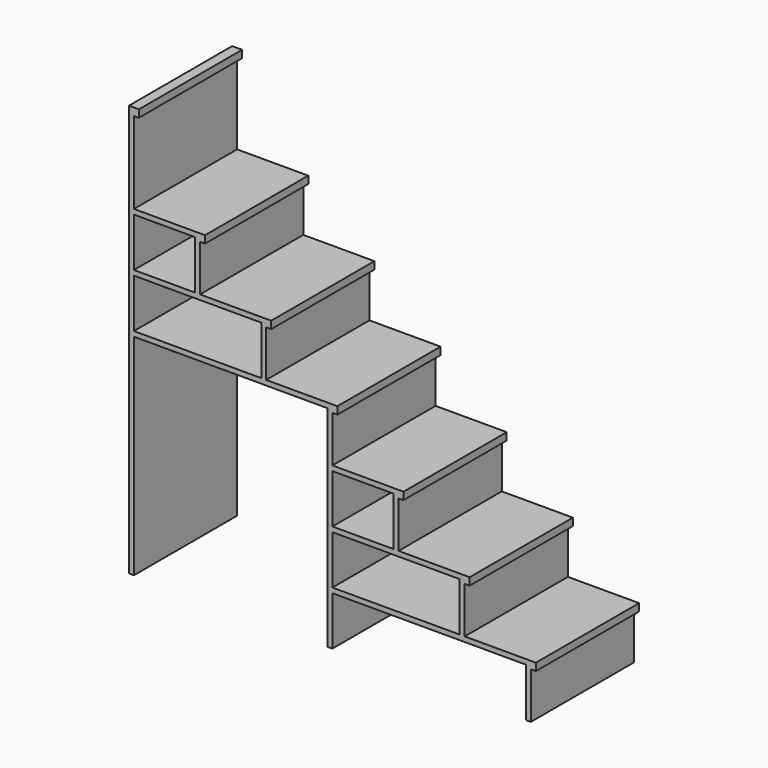
from build123d import *

# Parameters (mm, degrees)
F1_DEPTH  = 660.4
F2_W      = 313.26666582
F2_H      = 249.76666582
F2_W_2    = 651.93333164
F2_W_3    = 990.59999746
F2_H_2    = 1075.26666328
F2_W_4    = 990.60000254
F3_DEPTH  = 660.4
F4_W      = 660.4
F4_H      = 38.1
F5_DEPTH  = 25.4
F6_W      = 660.4
F6_H      = 38.1
F7_DEPTH  = 25.4
F8_W      = 660.4
F8_H      = 38.1
F9_DEPTH  = 25.4
F10_W     = 660.4
F10_H     = 38.1
F11_DEPTH = 25.4
F12_W     = 660.4
F12_H     = 38.1
F13_DEPTH = 25.4
F14_W     = 660.4
F14_H     = 38.1
F15_DEPTH = 25.4
F16_W     = 660.4
F16_H     = 38.1
F17_DEPTH = 25.4


with BuildPart() as f1:
    # F0 (on Front) → F1 (new body)
    with BuildSketch(Plane.XZ):
        Polygon((0, 1202.077542445), (0, 1659.277547525), (-25.4, 1659.277547525), (-25.4, -448.922452475), (0, -448.922452475), align=None)
        Polygon((338.66666582, 1202.077542445), (0, 1202.077542445), (0, -448.922452475), (2032, -448.922452475), (2032, -173.755786655), (1693.3333291, -173.755786655), (1693.3333291, 101.410879165), (1354.66666328, 101.410879165), (1354.66666328, 376.577544985), (1015.99999746, 376.577544985), (1015.99999746, 651.744210805), (677.33333164, 651.744210805), (677.33333164, 926.910876625), (338.66666582, 926.910876625), align=None)
    extrude(amount=F1_DEPTH)

    # F2 (on face) → F3 (cut)
    with BuildSketch(Plane.XZ.offset(660.4)):
        with Locations((156.63333291, 1051.794209535)):
            Rectangle(F2_W, F2_H)
        with Locations((325.96666582, 776.627543715)):
            Rectangle(F2_W_2, F2_H)
        with Locations((495.29999873, 88.710879165)):
            Rectangle(F2_W_3, F2_H_2)
        with Locations((1172.63333037, 226.294212075)):
            Rectangle(F2_W, F2_H)
        with Locations((1341.96666328, -48.872453745)):
            Rectangle(F2_W_2, F2_H)
        with Locations((1511.29999873, -324.039119565)):
            Rectangle(F2_W_4, F2_H)
    extrude(amount=-F3_DEPTH, mode=Mode.SUBTRACT)

    # F4 (on face) → F5 (join)
    with BuildSketch(Plane.YZ):
        with Locations((-330.2, 1640.227547525)):
            Rectangle(F4_W, F4_H)
    extrude(amount=F5_DEPTH)

    # F6 (on face) → F7 (join)
    with BuildSketch(Plane.YZ.offset(338.66666582)):
        with Locations((-330.2, 1183.027542445)):
            Rectangle(F6_W, F6_H)
    extrude(amount=F7_DEPTH)

    # F8 (on face) → F9 (join)
    with BuildSketch(Plane.YZ.offset(677.33333164)):
        with Locations((-330.2, 907.860876625)):
            Rectangle(F8_W, F8_H)
    extrude(amount=F9_DEPTH)

    # F10 (on face) → F11 (join)
    with BuildSketch(Plane.YZ.offset(1015.99999746)):
        with Locations((-330.2, 632.694210805)):
            Rectangle(F10_W, F10_H)
    extrude(amount=F11_DEPTH)

    # F12 (on face) → F13 (join)
    with BuildSketch(Plane.YZ.offset(1354.66666328)):
        with Locations((-330.2, 357.527544985)):
            Rectangle(F12_W, F12_H)
    extrude(amount=F13_DEPTH)

    # F14 (on face) → F15 (join)
    with BuildSketch(Plane.YZ.offset(1693.3333291)):
        with Locations((-330.2, 82.360879165)):
            Rectangle(F14_W, F14_H)
    extrude(amount=F15_DEPTH)

    # F16 (on face) → F17 (join)
    with BuildSketch(Plane.YZ.offset(2032)):
        with Locations((-330.2, -192.805786655)):
            Rectangle(F16_W, F16_H)
    extrude(amount=F17_DEPTH)


solid = f1.part
